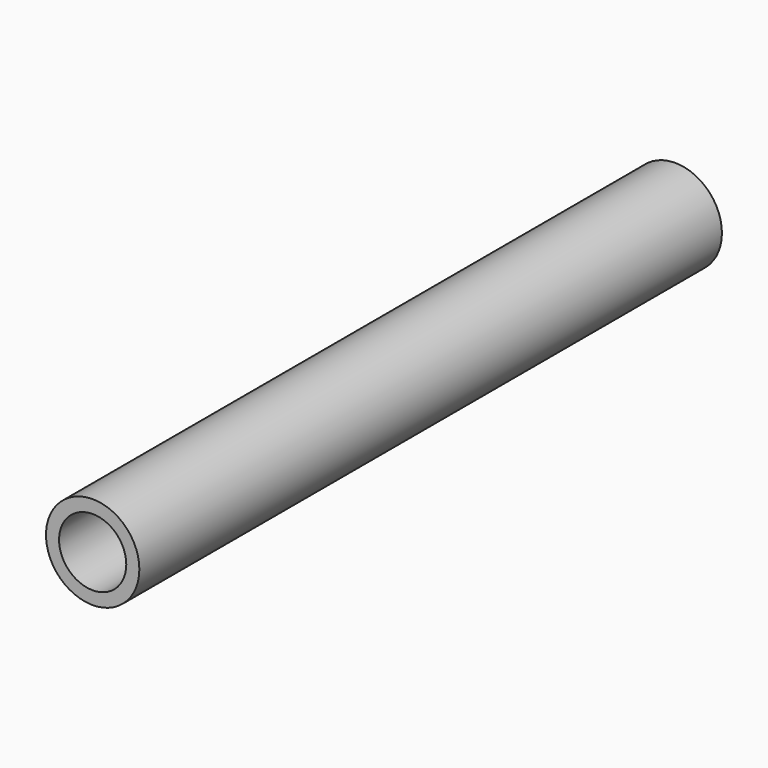
from build123d import *

# Parameters (mm, degrees)
F0_R     = 12.5
F0_R_2   = 9
F1_DEPTH = 195
F2_R     = 11.25
F2_R_2   = 9
F3_DEPTH = 110


with BuildPart() as f1:
    # F0 (on Front) → F1 (new body)
    with BuildSketch(Plane.XZ):
        Circle(F0_R)
        Circle(F0_R_2, mode=Mode.SUBTRACT)
    extrude(amount=-F1_DEPTH)

    # F2 (on face) → F3 (cut)
    with BuildSketch(Plane(origin=(0, 195, 0), x_dir=(-1, 0, 0), z_dir=(0, 1, 0))):
        Circle(F2_R)
        Circle(F2_R_2, mode=Mode.SUBTRACT)
    extrude(amount=-F3_DEPTH, mode=Mode.SUBTRACT)


solid = f1.part
